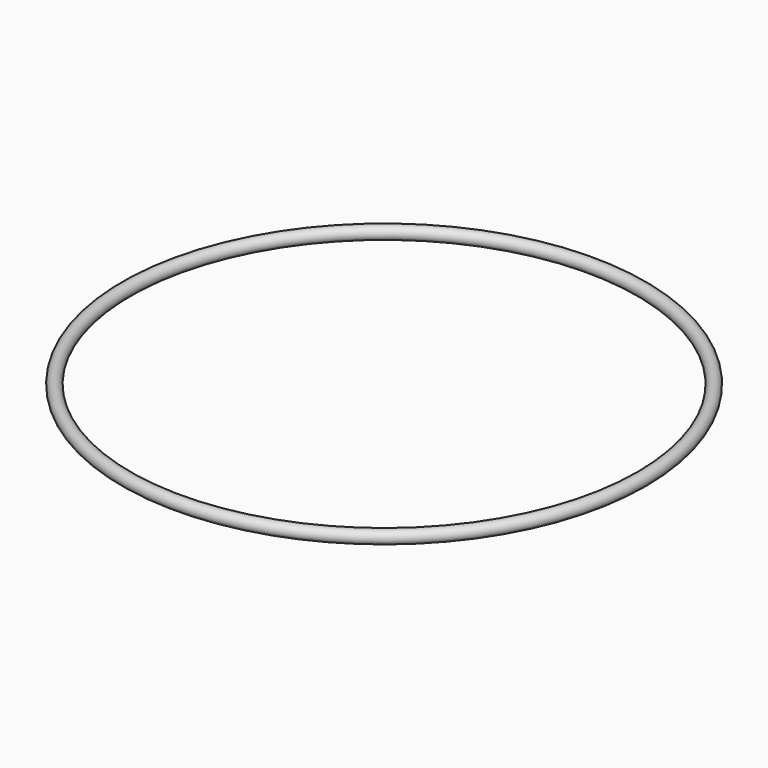
from build123d import *

# Parameters (mm, degrees)
TORUS_R = 3


with BuildPart() as part:
    # Torus → Torus (revolve)
    with BuildSketch(Plane.XZ):
        with Locations((120, 0)):
            Circle(TORUS_R)
    revolve(axis=Axis((0, 0, 0), (0, 0, 1)))


solid = part.part
